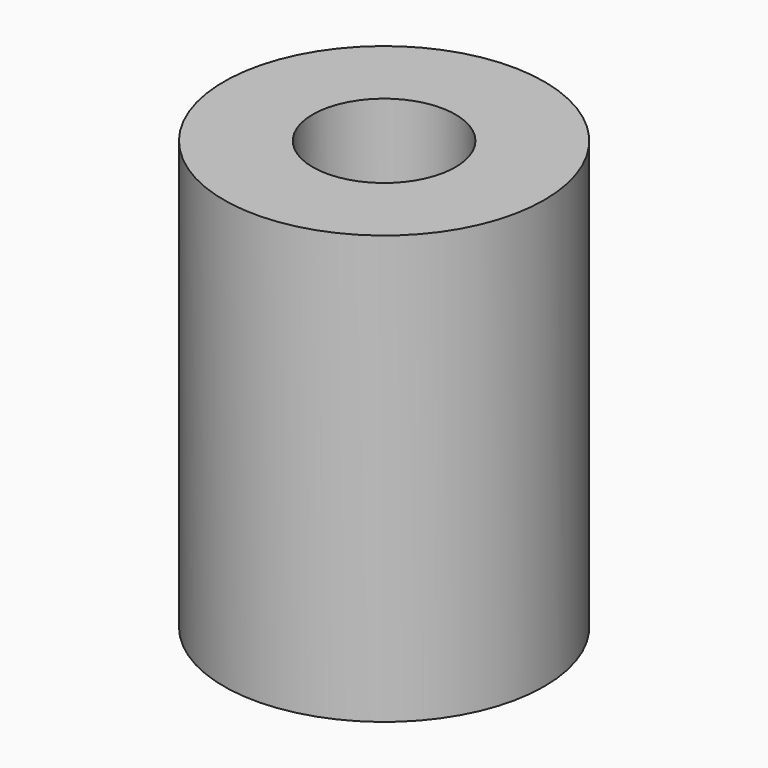
from build123d import *

# Parameters (mm, degrees)
F0_R     = 28.5124653839
F1_DEPTH = 76.2
F2_D     = 25.4


with BuildPart() as f1:
    # F0 (on Top) → F1 (new body)
    with BuildSketch(Plane.XY):
        with Locations((-119.2012131214, 26.1349212378)):
            Circle(F0_R)
    extrude(amount=F1_DEPTH)

    # F2 (through all)
    with Locations(Plane(origin=(0, 0, 0), x_dir=(1, 0, 0), z_dir=(0, 0, -1))):
        with Locations((-119.2012131214, -26.1349212378)):
            Hole(F2_D / 2)


solid = f1.part
